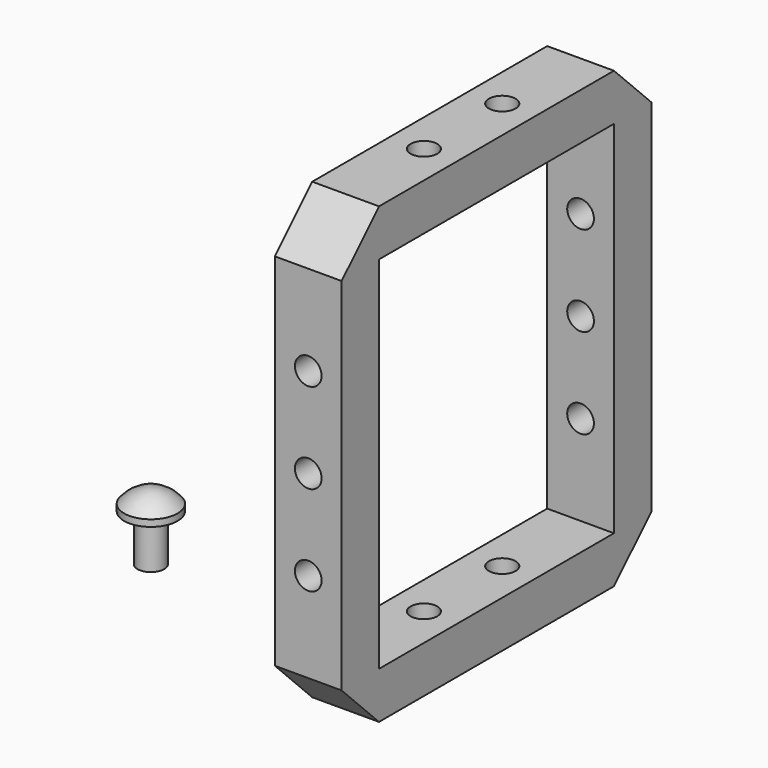
from build123d import *

# Parameters (mm, degrees)
F0_W     = 44
F0_H     = 54
F1_DEPTH = 5
F2_R     = 2
F3_DEPTH = 44
F4_R     = 2
F5_DEPTH = 36.4


with BuildPart() as f1:
    # F0 (on Right) → F1 (new body, symmetric)
    with BuildSketch(Plane.YZ):
        Polygon((22, 34), (-22, 34), (-29, 27), (-29, -27), (-22, -34), (22, -34), (29, -27), (29, 27), align=None)
        Rectangle(F0_W, F0_H, mode=Mode.SUBTRACT)
    extrude(amount=F1_DEPTH, both=True)

    # F2 (on Top) → F3 (cut, symmetric)
    with BuildSketch(Plane.XY):
        with Locations((0, 7.333333)):
            Circle(F2_R)
        with Locations((0, -7.333333)):
            Circle(F2_R)
    extrude(amount=F3_DEPTH, both=True, mode=Mode.SUBTRACT)

    # F4 (on Front) → F5 (cut, symmetric)
    with BuildSketch(Plane.XZ):
        with Locations((0, -13.5)):
            Circle(F4_R)
        Circle(F4_R)
        with Locations((0, 13.5)):
            Circle(F4_R)
    extrude(amount=F5_DEPTH, both=True, mode=Mode.SUBTRACT)


with BuildPart() as f6:
    # F0 (on Right) → F6 (revolve)
    with BuildSketch(Plane.YZ):
        with BuildLine():
            Line((-60.476262, 0), (-58.476262, 0))
            Line((-58.476262, 0), (-58.476262, 10))
            ThreePointArc((-58.476262, 10), (-60.71233, 9.472136), (-62.476262, 8))
            Line((-62.476262, 8), (-62.476262, 7))
            Line((-62.476262, 7), (-60.476262, 7))
            Line((-60.476262, 7), (-60.476262, 0))
        make_face()
    revolve(axis=Axis((0, -58.476262, -6.262247), (0, 0, -1)))


solid = Compound([f1.part, f6.part])
